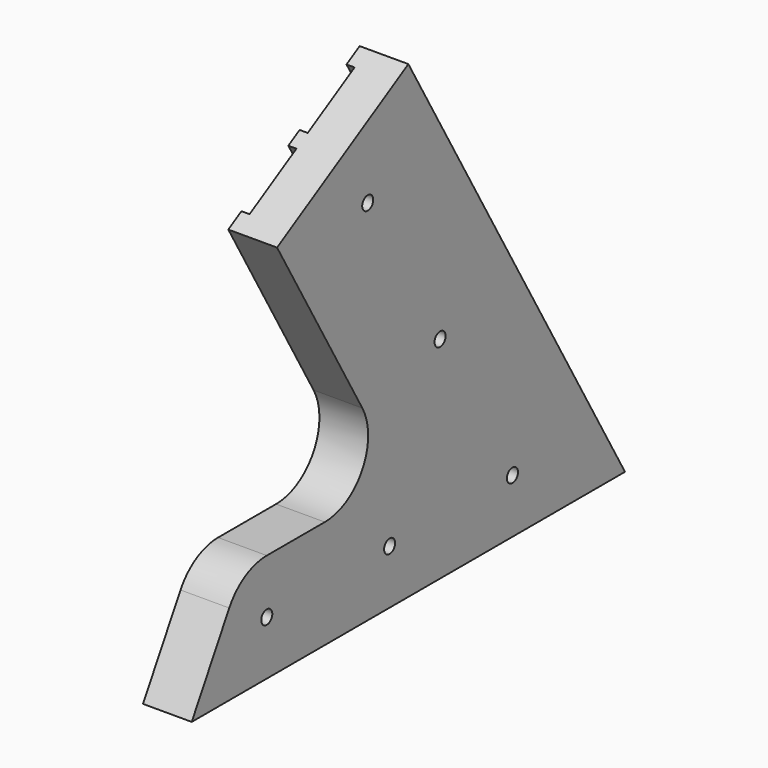
from build123d import *

# Parameters (mm, degrees)
PAD_DEPTH       = 18
SKETCH001_R     = 2.55
POCKET_DEPTH    = 18.001
SKETCH003_W     = 3
SKETCH003_H     = 25
POCKET003_DEPTH = 200.001


with BuildPart() as part:
    # Sketch → Pad (new body)
    with BuildSketch(Plane.YZ):
        with BuildLine():
            Line((0, 0), (200, 0))
            Line((200, 0), (100, 173.205081))
            Line((100, 173.205081), (39.378222, 138.205081))
            Line((39.378222, 138.205081), (78.756443, 70))
            ThreePointArc((61.435935, 40), (78.756443, 50), (78.756443, 70))
            Line((61.435935, 40), (34.641016, 40))
            ThreePointArc((34.641016, 40), (24.641016, 37.320508), (17.320508, 30))
            Line((17.320508, 30), (0, 0))
        make_face()
    extrude(amount=PAD_DEPTH)

    # Sketch001 (on Face10 of Pad) → Pocket (cut, through all)
    with BuildSketch(Plane.YZ.offset(18)):
        with Locations((81.236116, 135.705081)):
            Circle(SKETCH001_R)
        with Locations((114.637296, 77.85254)):
            Circle(SKETCH001_R)
        with Locations((148.038476, 20)):
            Circle(SKETCH001_R)
        with Locations((91.339746, 20)):
            Circle(SKETCH001_R)
        with Locations((34.641016, 20)):
            Circle(SKETCH001_R)
    extrude(amount=-POCKET_DEPTH, mode=Mode.SUBTRACT)

    # Sketch003 (on Face8 of Clone002) → Pocket003 (cut, through all)
    with BuildSketch(Plane(origin=(0, -50, 86.60254), x_dir=(1, 0, 0), z_dir=(0, -0.5, 0.866025))):
        with Locations((1.5, 122.705081)):
            Rectangle(SKETCH003_W, SKETCH003_H)
        with Locations((1.5, 153.705081)):
            Rectangle(SKETCH003_W, SKETCH003_H)
    extrude(amount=-POCKET003_DEPTH, mode=Mode.SUBTRACT)


solid = part.part
